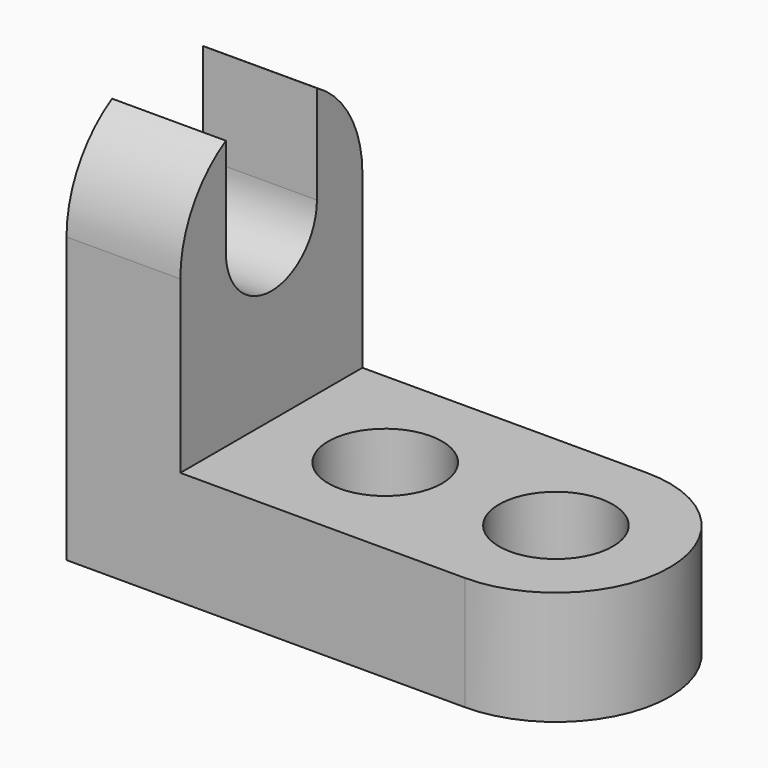
from build123d import *

# Parameters (mm, degrees)
F0_W      = 44.45
F0_H      = 31.75
F1_DEPTH  = 25.4
F2_W      = 31.75
F2_H      = 19.05
F3_DEPTH  = 25.4
F5_DEPTH  = 12.7
F7_DEPTH  = 12.7
F9_DEPTH  = 25.4
F10_R     = 6.35
F11_DEPTH = 25.4


with BuildPart() as f1:
    # F0 (on Front) → F1 (new body)
    with BuildSketch(Plane.XZ):
        with Locations((22.225, 15.875)):
            Rectangle(F0_W, F0_H)
    extrude(amount=F1_DEPTH)

    # F2 (on face) → F3 (cut)
    with BuildSketch(Plane.XZ.offset(25.4)):
        with Locations((28.575, 22.225)):
            Rectangle(F2_W, F2_H)
    extrude(amount=-F3_DEPTH, mode=Mode.SUBTRACT)

    # F4 (on face) → F5 (join)
    with BuildSketch(Plane.XY.offset(12.7)):
        with BuildLine():
            Line((44.45, 0), (44.45, -25.4))
            ThreePointArc((44.45, -25.4), (57.15, -12.7), (44.45, 0))
        make_face()
    extrude(amount=-F5_DEPTH)

    # F6 (on face) → F7 (join)
    with BuildSketch(Plane.YZ.offset(12.7)):
        with BuildLine():
            Line((-25.4, 31.75), (0, 31.75))
            ThreePointArc((0, 31.75), (-12.7, 44.45), (-25.4, 31.75))
        make_face()
    extrude(amount=-F7_DEPTH)

    # F8 (on face) → F9 (cut)
    with BuildSketch(Plane.YZ.offset(12.7)):
        with BuildLine():
            Line((-19.05, 42.7485226281), (-19.05, 31.75))
            ThreePointArc((-19.05, 31.75), (-12.7, 25.4), (-6.35, 31.75))
            Line((-6.35, 31.75), (-6.35, 42.7485226281))
            ThreePointArc((-6.35, 42.7485226281), (-12.7, 44.45), (-19.05, 42.7485226281))
        make_face()
    extrude(amount=-F9_DEPTH, mode=Mode.SUBTRACT)

    # F10 (on face) → F11 (cut)
    with BuildSketch(Plane.XY.offset(12.7)):
        with Locations((44.45, -12.7)):
            Circle(F10_R)
        with Locations((25.4, -12.7)):
            Circle(F10_R)
    extrude(amount=-F11_DEPTH, mode=Mode.SUBTRACT)


solid = f1.part
